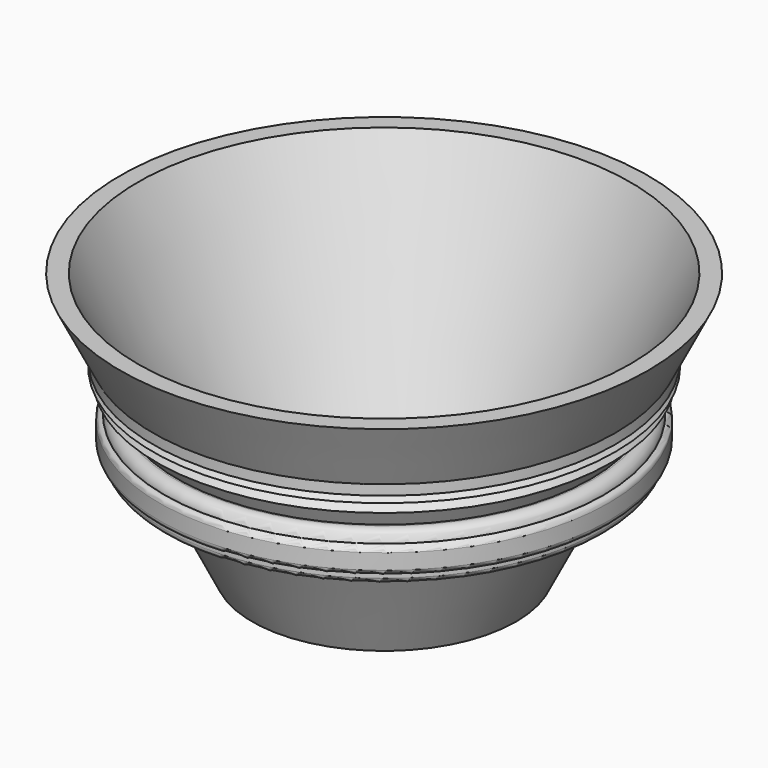
from build123d import *


with BuildPart() as f1:
    # F0 (on Front) → F1 (revolve)
    with BuildSketch(Plane.XZ):
        Polygon((0, 3), (0, 0), (25, 0), (34.89692, 19.79384), (35.799651, 21.599301), (38.26608, 26.53216), (39.230068, 28.460135), (41.208757, 32.417513), (41.937465, 33.87493), (42.82988, 35.65976), (43.790175, 37.580351), (50, 50), (46.645898, 50), (23.145898, 3), align=None)
        Polygon((43.790175, 35.65976), (43.790175, 37.580351), (42.82988, 35.65976), align=None)
        Polygon((43.790175, 34.424618), (42.82988, 35.65976), (41.937465, 33.87493), align=None)
        Polygon((41.937465, 33.87493), (41.208757, 32.417513), (43.076783, 32.417513), align=None)
        with BuildLine():
            Line((41.612296, 26.460135), (41.612296, 21.599301))
            Line((41.612296, 21.599301), (41.615961, 21.599301))
            ThreePointArc((41.615961, 21.599301), (42.323067, 21.892194), (42.615961, 22.599301))
            Line((42.615961, 22.599301), (42.615961, 25.53216))
            ThreePointArc((42.615961, 25.53216), (42.323067, 26.239267), (41.615961, 26.53216))
            Line((41.615961, 26.53216), (41.610999, 26.53216))
            ThreePointArc((41.610999, 26.53216), (41.611972, 26.496154), (41.612296, 26.460135))
        make_face()
        with BuildLine():
            Line((35.799651, 21.599301), (34.89692, 19.79384))
            Line((34.89692, 19.79384), (40.646095, 19.79384))
            ThreePointArc((40.646095, 19.79384), (41.329302, 20.076834), (41.612296, 20.760041))
            Line((41.612296, 20.760041), (41.612296, 21.599301))
            Line((41.612296, 21.599301), (35.799651, 21.599301))
        make_face()
        with BuildLine():
            Line((39.230068, 28.460135), (38.26608, 26.53216))
            Line((38.26608, 26.53216), (41.610999, 26.53216))
            ThreePointArc((41.610999, 26.53216), (41.000811, 27.899588), (39.612296, 28.460135))
            Line((39.612296, 28.460135), (39.230068, 28.460135))
        make_face()
    revolve(axis=Axis((0, 0, 25), (0, 0, 1)))


solid = f1.part
